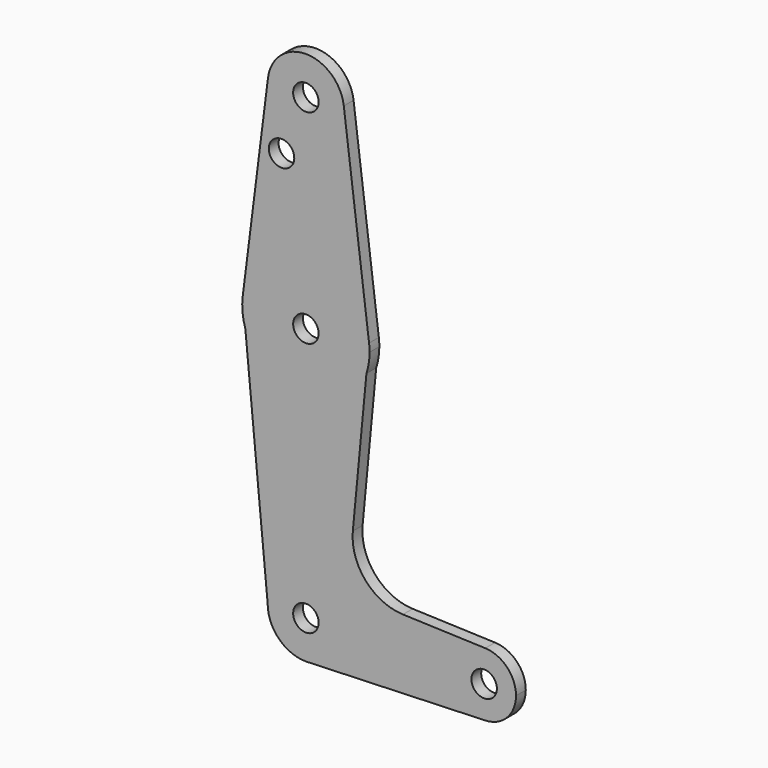
from build123d import *

# Parameters (mm, degrees)
F0_R     = 3.175
F1_DEPTH = 3.048


with BuildPart() as f1:
    # F0 (on Front) → F1 (new body)
    with BuildSketch(Plane.XZ):
        with BuildLine():
            ThreePointArc((-9.4502929642, 115.490625), (-0.596483242, 104.7936951058), (9.525, 114.3))
            ThreePointArc((9.525, 114.3), (9.5063048942, 114.896483242), (9.4502929642, 115.490625))
            ThreePointArc((9.4502929642, 115.490625), (0, 123.825), (-9.4502929642, 115.490625))
        make_face()
        with Locations((0, 114.3)):
            Circle(F0_R, mode=Mode.SUBTRACT)
        with BuildLine():
            ThreePointArc((9.4502929642, 115.490625), (9.5063048942, 114.896483242), (9.525, 114.3))
            ThreePointArc((9.525, 114.3), (-0.596483242, 104.7936951058), (-9.4502929642, 115.490625))
            Line((-9.4502929642, 115.490625), (-15.7504882737, 65.484375))
            ThreePointArc((-15.7504882737, 65.484375), (0, 79.375), (15.7504882737, 65.484375))
            Line((15.7504882737, 65.484375), (9.4502929642, 115.490625))
        make_face()
        with Locations((-6.0718972236, 100.0252)):
            Circle(F0_R, mode=Mode.SUBTRACT)
        with BuildLine():
            Line((15.0944103202, 58.583252896), (15.7504882737, 65.484375))
            ThreePointArc((15.7504882737, 65.484375), (0, 79.375), (-15.7504882737, 65.484375))
            Line((-15.7504882737, 65.484375), (-15.0944103202, 58.583252896))
            ThreePointArc((-15.0944103202, 58.583252896), (0, 47.625), (15.0944103202, 58.583252896))
        make_face()
        with Locations((0, 63.5)):
            Circle(F0_R, mode=Mode.SUBTRACT)
        with BuildLine():
            ThreePointArc((15.875, 63.5), (15.8438414904, 64.4941387366), (15.7504882737, 65.484375))
            Line((15.7504882737, 65.484375), (15.0944103202, 58.583252896))
            ThreePointArc((15.0944103202, 58.583252896), (15.6786381557, 61.0108373731), (15.875, 63.5))
        make_face()
        with BuildLine():
            Line((-15.0944103202, 58.583252896), (-15.7504882737, 65.484375))
            ThreePointArc((-15.7504882737, 65.484375), (-15.8037436669, 61.9975649401), (-15.0944103202, 58.583252896))
        make_face()
        with BuildLine():
            Line((11.702201162, 22.9014417949), (15.0944103202, 58.583252896))
            ThreePointArc((15.0944103202, 58.583252896), (0, 47.625), (-15.0944103202, 58.583252896))
            Line((-15.0944103202, 58.583252896), (-9.525, 0))
            ThreePointArc((-9.525, 0), (0, 9.525), (9.525, 0))
            ThreePointArc((9.525, 0), (6.9705567315, -6.4912990883), (0.6773435479, -9.500885786))
            Line((0.6773435479, -9.500885786), (44.7324052746, -7.9324746146))
            ThreePointArc((44.7324052746, -7.9324746146), (36.5125, 0), (44.7324052746, 7.9324746146))
            Line((44.7324052746, 7.9324746146), (24.195108372, 8.663626147))
            ThreePointArc((24.195108372, 8.663626147), (14.875705051, 13.0861880839), (11.702201162, 22.9014417949))
        make_face()
        with BuildLine():
            ThreePointArc((9.525, 0), (0, 9.525), (-9.525, 0))
            ThreePointArc((-9.525, 0), (-6.7351920908, -6.7351920908), (0, -9.525))
            Line((0, -9.525), (0.6773435479, -9.500885786))
            ThreePointArc((0.6773435479, -9.500885786), (6.9705567315, -6.4912990883), (9.525, 0))
        make_face()
        Circle(F0_R, mode=Mode.SUBTRACT)
        with BuildLine():
            Line((0.6773435479, -9.500885786), (0, -9.525))
            ThreePointArc((0, -9.525), (0.3388863295, -9.5189695375), (0.6773435479, -9.500885786))
        make_face()
        with BuildLine():
            ThreePointArc((52.3875, 0), (50.1616327839, 5.5119104847), (44.7324052746, 7.9324746146))
            ThreePointArc((44.7324052746, 7.9324746146), (36.5125, 0), (44.7324052746, -7.9324746146))
            ThreePointArc((44.7324052746, -7.9324746146), (50.1616327839, -5.5119104847), (52.3875, 0))
        make_face()
        with Locations((44.45, 0)):
            Circle(F0_R, mode=Mode.SUBTRACT)
    extrude(amount=F1_DEPTH)


solid = f1.part
